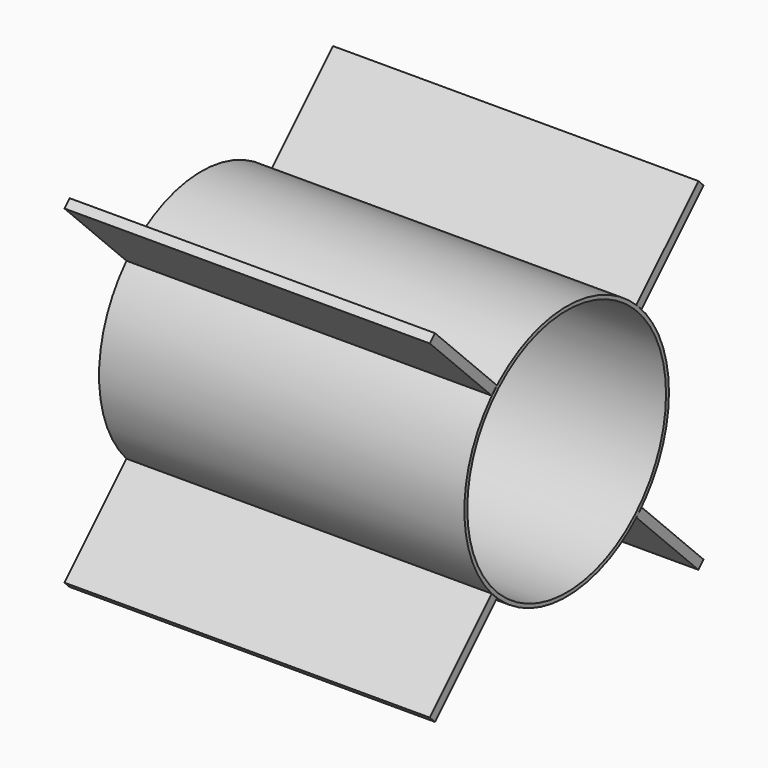
from build123d import *

# Parameters (mm, degrees)
F0_R     = 177.8
F0_R_2   = 172.72
F1_DEPTH = 254
F3_DEPTH = 254
F4_ANGLE = 90
F5_ANGLE = 180
F6_ANGLE = 45
F7_ANGLE = 90


with BuildPart() as f1:
    # F0 (on Right) → F1 (new body, symmetric)
    with BuildSketch(Plane.YZ):
        Circle(F0_R)
        Circle(F0_R_2, mode=Mode.SUBTRACT)
    extrude(amount=F1_DEPTH, both=True)


with BuildPart() as f3:
    # F2 (on Right) → F3 (new body, symmetric)
    with BuildSketch(Plane.YZ):
        with BuildLine():
            Line((-177.686571, 6.35), (-330.2, 6.35))
            Line((-330.2, 6.35), (-330.2, -6.35))
            Line((-330.2, -6.35), (-177.686571, -6.35))
            ThreePointArc((-177.686571, -6.35), (-177.8, 0), (-177.686571, 6.35))
        make_face()
    extrude(amount=F3_DEPTH, both=True)


with BuildPart() as f3_1:
    # F4: moved
    add(f3.part.rotate(Axis((-254, 0, 0), (1, 0, 0)), F4_ANGLE))


with BuildPart() as f5_1:
    # F5: copy of F3
    add(f3_1.part.rotate(Axis((-254, 0, 0), (1, 0, 0)), F5_ANGLE))


with BuildPart() as f3_2:
    # F6: moved
    add(f3_1.part.rotate(Axis((-254, 0, 0), (1, 0, 0)), F6_ANGLE))


with BuildPart() as f5_1_1:
    # F6: moved
    add(f5_1.part.rotate(Axis((-254, 0, 0), (1, 0, 0)), F6_ANGLE))


with BuildPart() as f7_1:
    # F7: copy of F3
    add(f3_2.part.rotate(Axis((-254, 0, 0), (1, 0, 0)), F7_ANGLE))


with BuildPart() as f7_2:
    # F7: copy of F5_1
    add(f5_1_1.part.rotate(Axis((-254, 0, 0), (1, 0, 0)), F7_ANGLE))


solid = Compound([f1.part, f3_2.part, f5_1_1.part, f7_1.part, f7_2.part])
